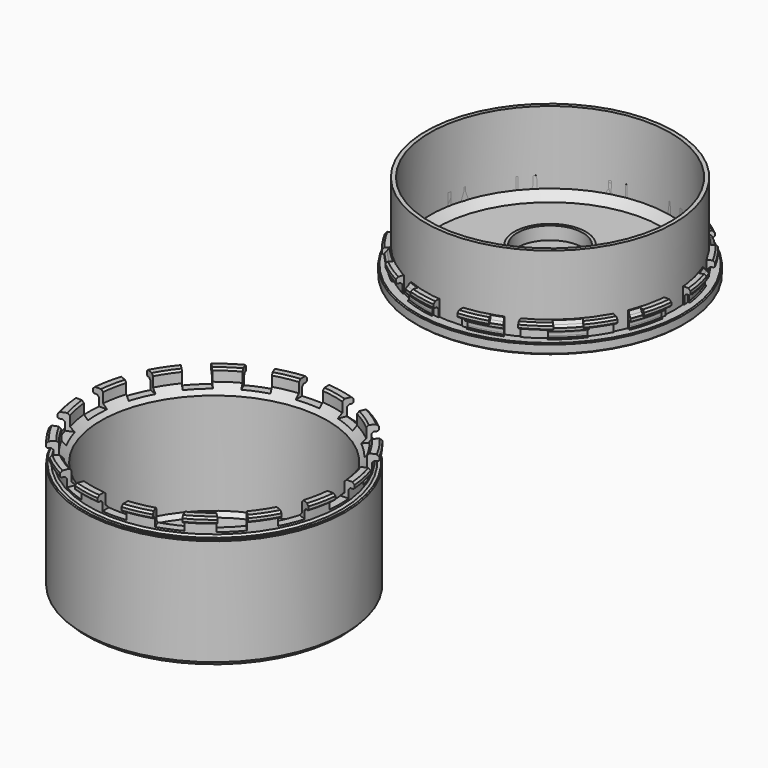
from build123d import *

# Parameters (mm, degrees)
SKETCH001_W           = 19.456879
SKETCH001_H           = 17.460252
POCKET_DEPTH          = 383.946619
POLARPATTERN_COUNT    = 12
SKETCH003_W           = 19.456879
SKETCH003_H           = 17.460252
POCKET001_DEPTH       = 390.722831
POLARPATTERN001_COUNT = 12
SKETCH005_W           = 26.721496
SKETCH005_H           = 12
POCKET002_DEPTH       = 384.257596
POLARPATTERN002_COUNT = 16
SKETCH007_W           = 35.625676
SKETCH007_H           = 12
POCKET003_DEPTH       = 404.001001
POLARPATTERN003_COUNT = 16
POCKET004_DEPTH       = 4
CHAMFER_SIZE          = 2
CHAMFER001_SIZE       = 5


with BuildPart() as test:
    # Sketch → Revolution (revolve)
    with BuildSketch(Plane.YZ):
        Polygon((66.5, 5), (63.5, 5), (63.5, 9), (65, 9), (65, 10.5), (63.5, 12), (60.5, 12), (60.5, 0), (66.5, 0), align=None)
    revolve(axis=Axis((0, 0, 0), (0, 0, 1)))

    # Sketch001 (on Face1 of Revolution) → Pocket (cut, through all)
    with BuildSketch(Plane(origin=(0, 0, 5), x_dir=(0, -1, 0), z_dir=(0, 0, 1))):
        with Locations((63.597717, 0)):
            Rectangle(SKETCH001_W, SKETCH001_H)
    pocket = extrude(amount=POCKET_DEPTH, mode=Mode.SUBTRACT)

    # PolarPattern: Pocket ×12 about axis
    polarpattern_axis = Axis((0, 0, 5), (0, 0, 1))
    for i in range(1, POLARPATTERN_COUNT):
        add(pocket.rotate(polarpattern_axis, i * 360 / POLARPATTERN_COUNT), mode=Mode.SUBTRACT)


with BuildPart() as cap:
    # Sketch002 → Revolution001 (revolve)
    with BuildSketch(Plane.YZ):
        with BuildLine():
            Line((67, 5), (64, 5))
            Line((63.5, 5.5), (64, 5))
            Line((63.5, 5.5), (63.5, 6.4))
            ThreePointArc((63.5, 6.4), (63.441421, 6.541421), (63.3, 6.6))
            Line((62.1, 6.6), (63.3, 6.6))
            ThreePointArc((62.1, 7.4), (61.7, 7), (62.1, 6.6))
            Line((62.1, 7.4), (63.3, 7.4))
            ThreePointArc((63.3, 7.4), (63.441421, 7.458579), (63.5, 7.6))
            Line((63.5, 7.6), (63.5, 8.5))
            Line((64, 9), (63.5, 8.5))
            Line((64, 9), (65, 9))
            Line((65, 9), (65, 10))
            Line((65, 10), (63, 13))
            Line((63, 13), (60.5, 13))
            Line((60.5, 13), (60.5, 2.5))
            Line((60, 2), (60.5, 2.5))
            Line((0, 2), (60, 2))
            Line((0, 0), (0, 2))
            Line((0, 0), (67, 0))
            Line((67, 0), (67.5, 0.5))
            Line((67.5, 0.5), (67.5, 4.5))
            Line((67.5, 4.5), (67, 5))
        make_face()
    revolve(axis=Axis((0, 0, 0), (0, 0, 1)))

    # Sketch003 → Pocket001 (cut, through all)
    with BuildSketch(Plane.XY.offset(5)):
        with Locations((63.597717, 0)):
            Rectangle(SKETCH003_W, SKETCH003_H)
    pocket001 = extrude(amount=POCKET001_DEPTH, mode=Mode.SUBTRACT)

    # PolarPattern001: Pocket001 ×12 about axis
    polarpattern001_axis = Axis((0, 0, 5), (0, 0, 1))
    for i in range(1, POLARPATTERN001_COUNT):
        add(pocket001.rotate(polarpattern001_axis, i * 360 / POLARPATTERN001_COUNT), mode=Mode.SUBTRACT)


with BuildPart() as front_cap:
    # Sketch004 → Revolution002 (revolve)
    with BuildSketch(Plane.XZ):
        Polygon((65.5, 3), (64, 3), (63, 4), (63, 9), (64, 10), (65.5, 10), (66, 10.5), (66, 12), (65, 13), (62, 13), (61, 12), (61, 7), (57, 3), (0, 3), (0, 0), (65, 0), (66, 1), (66, 2.5), align=None)
    revolve(axis=Axis((0, 0, 0), (0, 0, 1)))

    # Sketch005 (on Face14 of Revolution002) → Pocket002 (cut, through all)
    with BuildSketch(Plane(origin=(0, 0, 3), x_dir=(-1, 0, 0), z_dir=(0, 0, 1))):
        with Locations((60.694992, 0)):
            Rectangle(SKETCH005_W, SKETCH005_H)
    pocket002 = extrude(amount=POCKET002_DEPTH, mode=Mode.SUBTRACT)

    # PolarPattern002: Pocket002 ×16 about axis
    polarpattern002_axis = Axis((0, 0, 3), (0, 0, 1))
    for i in range(1, POLARPATTERN002_COUNT):
        add(pocket002.rotate(polarpattern002_axis, i * 360 / POLARPATTERN002_COUNT), mode=Mode.SUBTRACT)


with BuildPart() as rear_cap:
    # Sketch006 → Revolution003 (revolve)
    with BuildSketch(Plane.XZ):
        Polygon((65.5, 3), (64, 3), (63, 4), (63, 9), (64, 10), (65.5, 10), (66, 10.5), (66, 12), (65, 13), (62, 13), (61, 12), (61, 7), (57, 3), (57, -48), (55, -50), (0, -50), (0, -53), (64, -53), (66, -51), (66, 1), (66, 2.5), align=None)
    revolve(axis=Axis((0, 0, 0), (0, 0, 1)))

    # Sketch007 → Pocket003 (cut, through all)
    with BuildSketch(Plane.XY.offset(5)):
        with Locations((54.835862, 0)):
            Rectangle(SKETCH007_W, SKETCH007_H)
    pocket003 = extrude(amount=POCKET003_DEPTH, mode=Mode.SUBTRACT)

    # PolarPattern003: Pocket003 ×16 about axis
    polarpattern003_axis = Axis((0, 0, 5), (0, 0, 1))
    for i in range(1, POLARPATTERN003_COUNT):
        add(pocket003.rotate(polarpattern003_axis, i * 360 / POLARPATTERN003_COUNT), mode=Mode.SUBTRACT)


with BuildPart() as rear_cap_1:
    # Body003 placement: moved
    add(rear_cap.part.moved(Location((0, -211, 0))))


with BuildPart() as body:
    # Sketch008 → Revolution004 (revolve)
    with BuildSketch(Plane.XZ):
        Polygon((0, 0), (62.5, 0), (62.5, 43.5), (60.5, 43.5), (60.5, 2), (18, 2), (18, 13.5), (16.5, 13.5), (16.5, 7), (2.8, 7), (2.8, 1), (0, 1), align=None)
    revolve(axis=Axis((0, 0, 0), (0, 0, 1)))

    # Sketch009 (on Face11 of Revolution004) → Pocket004 (cut)
    with BuildSketch(Plane(origin=(0, 0, 1), x_dir=(-1, 0, 0), z_dir=(0, 0, 1))):
        Polygon((0, -4.618802), (4, -2.309401), (4, 2.309401), (0, 4.618802), (-4, 2.309401), (-4, -2.309401), align=None)
    extrude(amount=POCKET004_DEPTH, mode=Mode.SUBTRACT)

    # Chamfer
    chamfer_edges = [body.edges().sort_by_distance(p)[0] for p in [
        (-62.5, 0, 0),
    ]]
    chamfer(chamfer_edges, length=CHAMFER_SIZE)

    # Chamfer001
    chamfer001_edges = [body.edges().sort_by_distance(p)[0] for p in [
        (-60.5, 0, 2),
        (-18, 0, 2),
    ]]
    chamfer(chamfer001_edges, length=CHAMFER001_SIZE)


solid = Compound([test.part, cap.part, front_cap.part, rear_cap_1.part, body.part])
